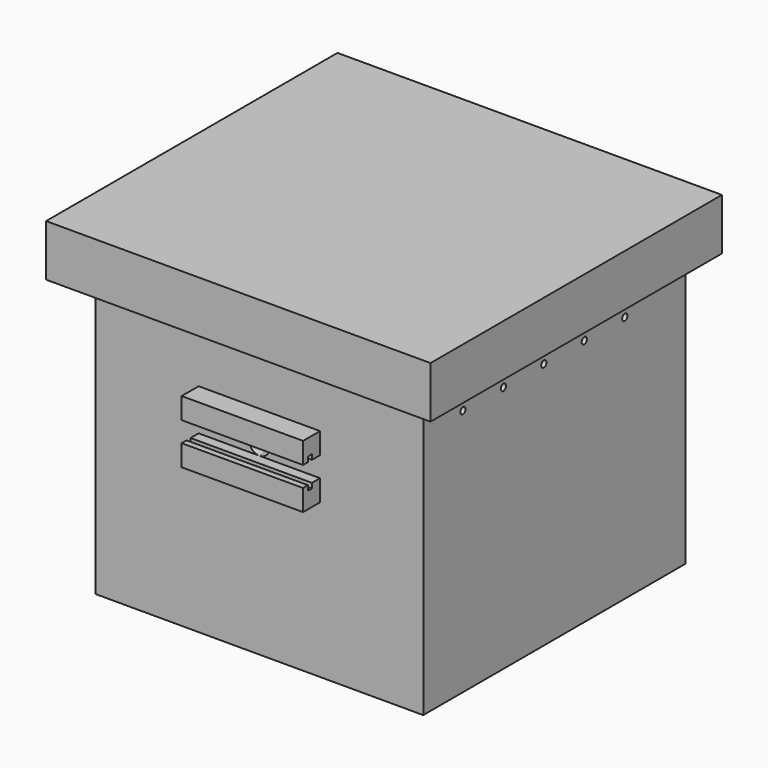
from build123d import *

# Parameters (mm, degrees)
F0_W      = 28.2
F0_H      = 28.2
F2_DEPTH  = 2.1
F1_W      = 28.2
F1_H      = 2.1
F3_DEPTH  = 30
F4_W      = 0.5
F4_H      = 32.4
F4_W_2    = 28.2
F4_H_2    = 0.5
F5_DEPTH  = 0.5
F6_W      = 15.5
F6_H      = 36
F6_W_2    = 7
F7_DEPTH  = 2.1
F9_DEPTH  = 2.1
F10_DEPTH = 2.1
F11_W     = 33.8
F11_H     = 2.1
F12_DEPTH = 3
F13_R     = 0.325
F14_DEPTH = 35.201
F15_W     = 0.5
F15_H     = 0.5
F16_DEPTH = 25.001


with BuildPart() as f2:
    # F0 (on Top) → F2 (new body)
    with BuildSketch(Plane.XY):
        Rectangle(F0_W, F0_H)
    extrude(amount=F2_DEPTH)

    # F1 (on Top) → F3 (join)
    with BuildSketch(Plane.XY):
        Polygon((-16.2, 16.2), (-16.2, -16.2), (-14.1, -16.2), (-14.1, -14.1), (-14.1, 14.1), (-14.1, 16.2), align=None)
        with Locations((0, -15.15)):
            Rectangle(F1_W, F1_H)
        Polygon((14.1, -14.1), (14.1, -16.2), (16.2, -16.2), (16.2, 16.2), (14.1, 16.2), (14.1, 14.1), align=None)
        with Locations((0, 15.15)):
            Rectangle(F1_W, F1_H)
    extrude(amount=F3_DEPTH)

    # F4 (on face) → F5 (join)
    with BuildSketch(Plane.XY.offset(30)):
        with Locations((-15.35, 0)):
            Rectangle(F4_W, F4_H)
        with Locations((15.35, 0)):
            Rectangle(F4_W, F4_H)
        with Locations((0, 15.35)):
            Rectangle(F4_W_2, F4_H_2)
        with Locations((0, -15.35)):
            Rectangle(F4_W_2, F4_H_2)
    extrude(amount=F5_DEPTH)

    # F6 (on face) → F7 (join)
    with BuildSketch(Plane.XY.offset(30.5)):
        with Locations((-11.25, -0.8)):
            Rectangle(F6_W, F6_H)
        with Locations((4.25, -0.8)):
            Rectangle(F6_W, F6_H)
        with Locations((15.5, -0.8)):
            Rectangle(F6_W_2, F6_H)
    extrude(amount=F7_DEPTH)

    # F8 (on face) → F9 (cut, through all)
    with BuildSketch(Plane.XZ.offset(16.2)):
        with BuildLine():
            ThreePointArc((0, 17.3), (0.707107, 17.592893), (1, 18.3))
            ThreePointArc((1, 18.3), (0.707107, 19.007107), (0, 19.3))
            ThreePointArc((0, 19.3), (-1, 18.3), (0, 17.3))
        make_face()
    extrude(amount=-F9_DEPTH, mode=Mode.SUBTRACT)

    # F8 (on face) → F10 (join)
    with BuildSketch(Plane.XZ.offset(16.2)):
        Polygon((6, 17.3), (0, 17.3), (-6, 17.3), (-6, 15.2), (6, 15.2), align=None)
        Polygon((-6, 19.3), (0, 19.3), (6, 19.3), (6, 21.4), (-6, 21.4), align=None)
    extrude(amount=F10_DEPTH)

    # F11 (on face) → F12 (join)
    with BuildSketch(Plane.XY.offset(30.5)):
        Polygon((16.9, -16.7), (16.9, -18.8), (19, -18.8), (19, 17.2), (16.9, 17.2), align=None)
        with Locations((0, -17.75)):
            Rectangle(F11_W, F11_H)
        Polygon((-19, -18.8), (-16.9, -18.8), (-16.9, -16.7), (-16.9, 17.2), (-19, 17.2), align=None)
    extrude(amount=-F12_DEPTH)

    # F13 (on face) → F14 (cut, through all)
    with BuildSketch(Plane(origin=(-16.2, 0, 0), x_dir=(0, -1, 0), z_dir=(-1, 0, 0))):
        with Locations((-11.2, 26.5)):
            Circle(F13_R)
        with Locations((-8.7, 24.5)):
            Circle(F13_R)
        with Locations((-6.2, 26.5)):
            Circle(F13_R)
        with Locations((-3.7, 24.5)):
            Circle(F13_R)
        with Locations((-1.2, 26.5)):
            Circle(F13_R)
        with Locations((1.3, 24.5)):
            Circle(F13_R)
        with Locations((3.8, 26.5)):
            Circle(F13_R)
        with Locations((6.3, 24.5)):
            Circle(F13_R)
        with Locations((8.8, 26.5)):
            Circle(F13_R)
        with Locations((11.3, 24.5)):
            Circle(F13_R)
    extrude(amount=-F14_DEPTH, mode=Mode.SUBTRACT)

    # F15 (on face) → F16 (cut, through all)
    with BuildSketch(Plane.YZ.offset(6)):
        with Locations((-17.45, 17.05)):
            Rectangle(F15_W, F15_H)
        with Locations((-17.45, 19.55)):
            Rectangle(F15_W, F15_H)
    extrude(amount=-F16_DEPTH, mode=Mode.SUBTRACT)


solid = f2.part
